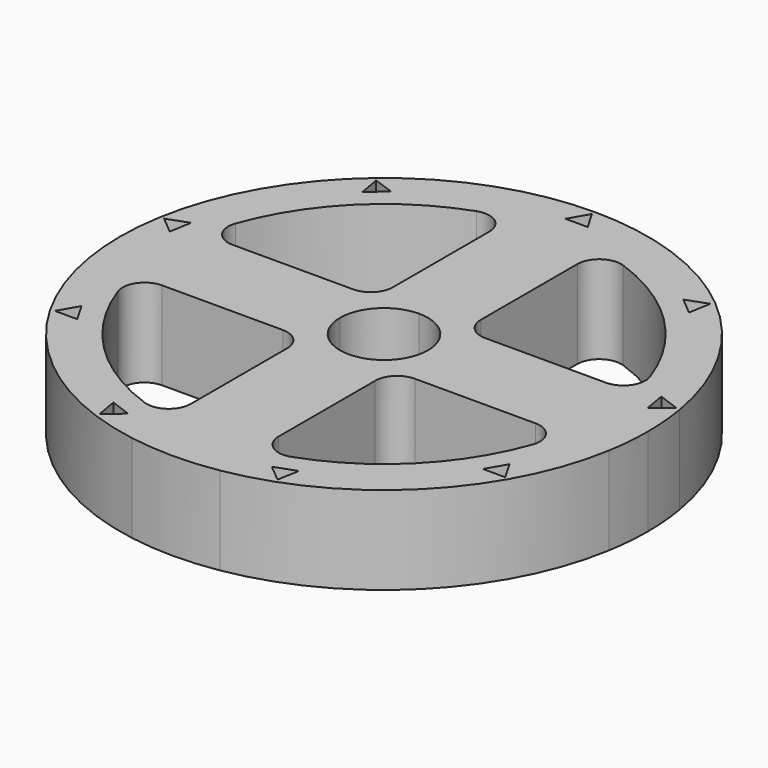
from build123d import *

# Parameters (mm, degrees)
F1_DEPTH = 12.7


with BuildPart() as f1:
    # F0 (on Top) → F1 (new body, symmetric)
    with BuildSketch(Plane.XY):
        with BuildLine():
            ThreePointArc((75.134213, -12.7), (75.933086, -6.372321), (76.2, 0))
            ThreePointArc((76.2, 0), (75.933086, 6.372321), (75.134213, 12.7))
            ThreePointArc((75.134213, 12.7), (53.881537, 53.881537), (12.7, 75.134213))
            ThreePointArc((12.7, 75.134213), (0, 76.2), (-12.7, 75.134213))
            ThreePointArc((-12.7, 75.134213), (-53.881537, 53.881537), (-75.134213, 12.7))
            ThreePointArc((-75.134213, 12.7), (-76.2, 0), (-75.134213, -12.7))
            ThreePointArc((-75.134213, -12.7), (-53.881537, -53.881537), (-12.7, -75.134213))
            ThreePointArc((-12.7, -75.134213), (0, -76.2), (12.7, -75.134213))
            ThreePointArc((12.7, -75.134213), (53.881537, -53.881537), (75.134213, -12.7))
        make_face()
        Polygon((-25.670162, -70.528192), (-26.787991, -64.18867), (-20.73889, -66.390362), align=None, mode=Mode.SUBTRACT)
        Polygon((-64.999133, -37.527267), (-61.780473, -31.952385), (-58.561814, -37.527267), align=None, mode=Mode.SUBTRACT)
        with BuildLine():
            Line((-34.771706, -12.7), (-19.05, -12.7))
            ThreePointArc((-19.05, -12.7), (-14.559872, -14.559872), (-12.7, -19.05))
            Line((-12.7, -19.05), (-12.7, -34.771706))
            Line((-12.7, -34.771706), (-12.7, -45.838683))
            Line((-12.7, -45.838683), (-12.7, -53.881537))
            ThreePointArc((-12.7, -53.881537), (-15.383826, -59.06629), (-21.166667, -59.868374))
            ThreePointArc((-21.166667, -59.868374), (-44.901281, -44.901281), (-59.868374, -21.166667))
            ThreePointArc((-59.868374, -21.166667), (-59.06629, -15.383826), (-53.881537, -12.7))
            Line((-53.881537, -12.7), (-45.838683, -12.7))
            Line((-45.838683, -12.7), (-34.771706, -12.7))
        make_face(mode=Mode.SUBTRACT)
        Polygon((25.670162, -70.528192), (20.73889, -66.390362), (26.787991, -64.18867), align=None, mode=Mode.SUBTRACT)
        with BuildLine():
            ThreePointArc((12.7, -19.05), (14.559872, -14.559872), (19.05, -12.7))
            Line((19.05, -12.7), (34.771706, -12.7))
            Line((34.771706, -12.7), (45.838683, -12.7))
            Line((45.838683, -12.7), (53.881537, -12.7))
            ThreePointArc((53.881537, -12.7), (59.06629, -15.383826), (59.868374, -21.166667))
            ThreePointArc((59.868374, -21.166667), (44.901281, -44.901281), (21.166667, -59.868374))
            ThreePointArc((21.166667, -59.868374), (15.383826, -59.06629), (12.7, -53.881537))
            Line((12.7, -53.881537), (12.7, -45.838683))
            Line((12.7, -45.838683), (12.7, -34.771706))
            Line((12.7, -34.771706), (12.7, -19.05))
        make_face(mode=Mode.SUBTRACT)
        Polygon((64.999133, -37.527267), (58.561814, -37.527267), (61.780473, -31.952385), align=None, mode=Mode.SUBTRACT)
        Polygon((-73.914287, 13.033083), (-67.865185, 15.234776), (-68.983014, 8.895254), align=None, mode=Mode.SUBTRACT)
        with BuildLine():
            ThreePointArc((-59.868374, 21.166667), (-44.901281, 44.901281), (-21.166667, 59.868374))
            ThreePointArc((-21.166667, 59.868374), (-15.383826, 59.06629), (-12.7, 53.881537))
            Line((-12.7, 53.881537), (-12.7, 45.838683))
            Line((-12.7, 45.838683), (-12.7, 34.771706))
            Line((-12.7, 34.771706), (-12.7, 19.05))
            ThreePointArc((-12.7, 19.05), (-14.559872, 14.559872), (-19.05, 12.7))
            Line((-19.05, 12.7), (-34.771706, 12.7))
            Line((-34.771706, 12.7), (-45.838683, 12.7))
            Line((-45.838683, 12.7), (-53.881537, 12.7))
            ThreePointArc((-53.881537, 12.7), (-59.06629, 15.383826), (-59.868374, 21.166667))
        make_face(mode=Mode.SUBTRACT)
        Polygon((-48.244124, 57.495109), (-42.195023, 55.293416), (-47.126296, 51.155587), align=None, mode=Mode.SUBTRACT)
        with BuildLine():
            ThreePointArc((0, 12.7), (8.980256, 8.980256), (12.7, 0))
            ThreePointArc((12.7, 0), (8.980256, -8.980256), (0, -12.7))
            ThreePointArc((0, -12.7), (-8.980256, -8.980256), (-12.7, 0))
            ThreePointArc((-12.7, 0), (-8.980256, 8.980256), (0, 12.7))
        make_face(mode=Mode.SUBTRACT)
        with BuildLine():
            ThreePointArc((19.05, 12.7), (14.559872, 14.559872), (12.7, 19.05))
            Line((12.7, 19.05), (12.7, 34.771706))
            Line((12.7, 34.771706), (12.7, 45.838683))
            Line((12.7, 45.838683), (12.7, 53.881537))
            ThreePointArc((12.7, 53.881537), (15.383826, 59.06629), (21.166667, 59.868374))
            ThreePointArc((21.166667, 59.868374), (44.901281, 44.901281), (59.868374, 21.166667))
            ThreePointArc((59.868374, 21.166667), (59.06629, 15.383826), (53.881537, 12.7))
            Line((53.881537, 12.7), (45.838683, 12.7))
            Line((45.838683, 12.7), (34.771706, 12.7))
            Line((34.771706, 12.7), (19.05, 12.7))
        make_face(mode=Mode.SUBTRACT)
        Polygon((73.914287, 13.033083), (68.983014, 8.895254), (67.865185, 15.234776), align=None, mode=Mode.SUBTRACT)
        Polygon((0, 75.054534), (3.21866, 69.479652), (-3.21866, 69.479652), align=None, mode=Mode.SUBTRACT)
        Polygon((48.244124, 57.495109), (47.126296, 51.155587), (42.195023, 55.293416), align=None, mode=Mode.SUBTRACT)
    extrude(amount=F1_DEPTH, both=True)


solid = f1.part
